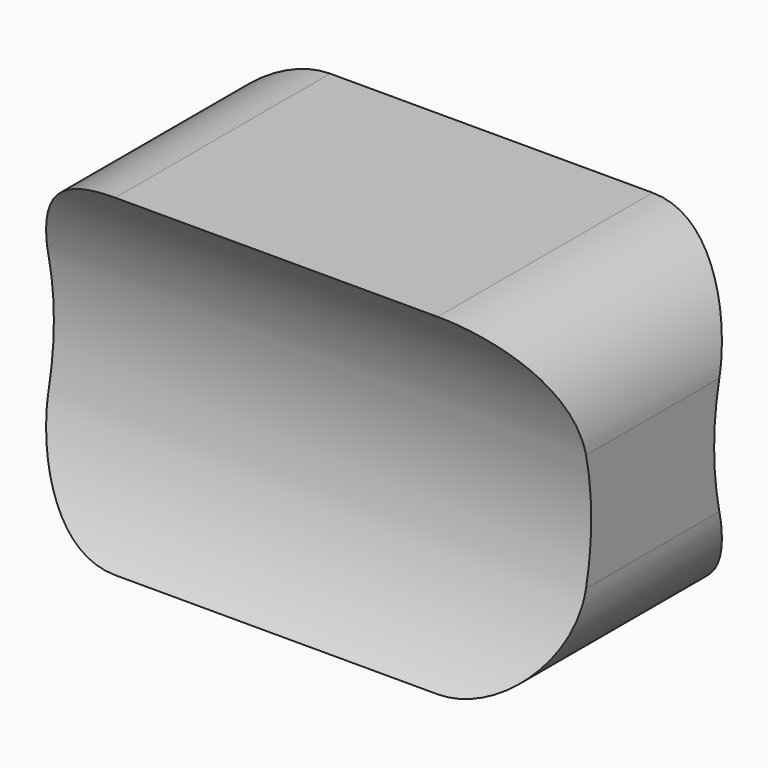
from build123d import *

# Parameters (mm, degrees)
F1_DEPTH = 12.7
F2_R     = 5.08


with BuildPart() as f1:
    # F0 (on Right) → F1 (new body, symmetric)
    with BuildSketch(Plane.YZ):
        with BuildLine():
            Line((6.35, 7.853726), (-6.35, 7.853726))
            ThreePointArc((-6.35, 7.853726), (-3.630431, 0), (-6.35, -7.853726))
            Line((-6.35, -7.853726), (6.35, -7.853726))
            ThreePointArc((6.35, -7.853726), (3.630431, 0), (6.35, 7.853726))
        make_face()
    extrude(amount=F1_DEPTH, both=True)

    # F2
    f2_edges = [f1.edges().sort_by_distance(p)[0] for p in [
        (-12.7, 0, 7.853726),
        (-12.7, 0, -7.853726),
        (12.7, 0, 7.853726),
        (12.7, 0, -7.853726),
    ]]
    fillet(f2_edges, radius=F2_R)


solid = f1.part
